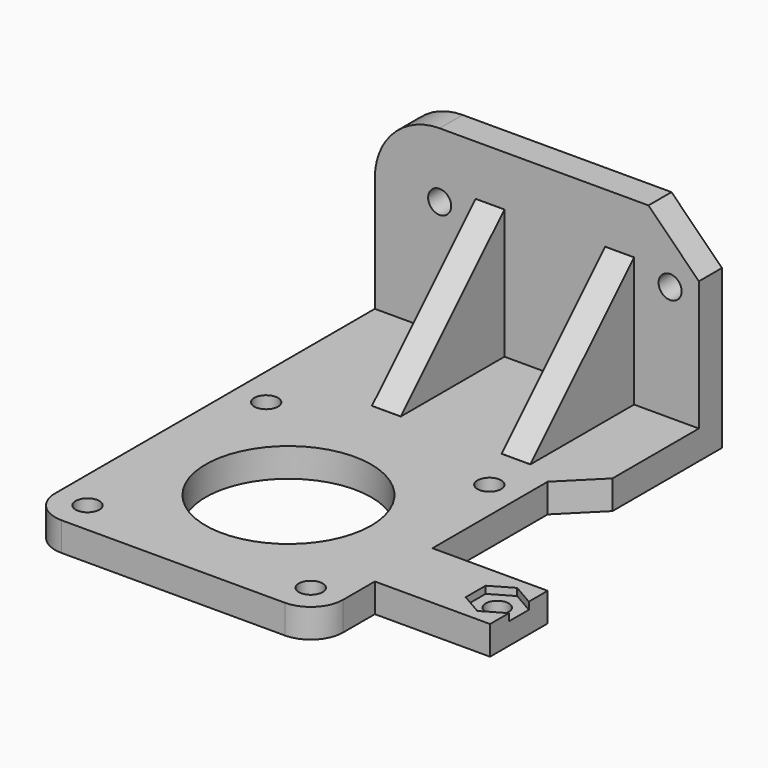
from build123d import *

# Parameters (mm, degrees)
PAD001_DEPTH      = 25
PAD001_DEPTH_BACK = 20
SKETCH002_W       = 4
SKETCH002_H       = 18
PAD002_DEPTH      = 22
SKETCH003_R       = 1.6
POCKET_DEPTH      = 44.001
FILLET001_R       = 9
CHAMFER_SIZE      = 7
CHAMFER001_SIZE   = 5
CHAMFER002_SIZE   = 17.99
SKETCH004_W       = 16
SKETCH004_H       = 10
PAD003_DEPTH      = 4
SKETCH005_R       = 1.6
POCKET001_DEPTH   = 4.001
POCKET002_DEPTH   = 1.5
SKETCH_W          = 40
SKETCH_H          = 40
SKETCH_R          = 1.65
SKETCH_R_2        = 11.5
PAD_DEPTH         = 4
FILLET_R          = 4.5


with BuildPart() as clippingbody:
    # Sketch001 → Pad001 (new body, two sides)
    with BuildSketch(Plane.YZ) as pad001_sk:
        Polygon((20, 0), (44, 0), (44, 29), (40, 29), (40, 4), (20, 4), align=None)
    extrude(amount=PAD001_DEPTH)
    extrude(pad001_sk.sketch, amount=-PAD001_DEPTH_BACK)

    # Sketch002 → Pad002 (join)
    with BuildSketch(Plane.XY):
        with Locations((14, 31)):
            Rectangle(SKETCH002_W, SKETCH002_H)
        with Locations((-4, 31)):
            Rectangle(SKETCH002_W, SKETCH002_H)
    extrude(amount=PAD002_DEPTH)

    # Sketch003 → Pocket (cut, through all)
    with BuildSketch(Plane.XZ):
        with Locations((21, 20)):
            Circle(SKETCH003_R)
        with Locations((-11, 20)):
            Circle(SKETCH003_R)
    extrude(amount=-POCKET_DEPTH, mode=Mode.SUBTRACT)

    # Fillet001
    fillet001_edges = [clippingbody.edges().sort_by_distance(p)[0] for p in [
        (-20, 42, 29),
    ]]
    fillet(fillet001_edges, radius=FILLET001_R)

    # Chamfer
    chamfer_edges = [clippingbody.edges().sort_by_distance(p)[0] for p in [
        (25, 42, 29),
    ]]
    chamfer(chamfer_edges, length=CHAMFER_SIZE)

    # Chamfer001
    chamfer001_edges = [clippingbody.edges().sort_by_distance(p)[0] for p in [
        (25, 20, 2),
    ]]
    chamfer(chamfer001_edges, length=CHAMFER001_SIZE)

    # Chamfer002
    chamfer002_edges = [clippingbody.edges().sort_by_distance(p)[0] for p in [
        (-4, 22, 22),
        (14, 22, 22),
    ]]
    chamfer(chamfer002_edges, length=CHAMFER002_SIZE)


with BuildPart() as sidestandbody:
    # Sketch004 → Pad003 (new body)
    with BuildSketch(Plane.XY):
        with Locations((28, -5)):
            Rectangle(SKETCH004_W, SKETCH004_H)
    extrude(amount=PAD003_DEPTH)

    # Sketch005 → Pocket001 (cut, through all)
    with BuildSketch(Plane.XY):
        with Locations((33, -5)):
            Circle(SKETCH005_R)
    extrude(amount=POCKET001_DEPTH, mode=Mode.SUBTRACT)

    # Sketch006 (on DatumPlane) → Pocket002 (cut)
    with BuildSketch(Plane.XY.offset(4.5)):
        Polygon((33, -8.464102), (36, -6.732051), (36, -3.267949), (33, -1.535898), (30, -3.267949), (30, -6.732051), align=None)
    extrude(amount=-POCKET002_DEPTH, mode=Mode.SUBTRACT)


with BuildPart() as holderfusion_refined:
    # Sketch → Pad (new body)
    with BuildSketch(Plane.XY):
        Rectangle(SKETCH_W, SKETCH_H)
        with Locations((-15.5, 15.5)):
            Circle(SKETCH_R, mode=Mode.SUBTRACT)
        with Locations((15.5, 15.5)):
            Circle(SKETCH_R, mode=Mode.SUBTRACT)
        with Locations((15.5, -15.5)):
            Circle(SKETCH_R, mode=Mode.SUBTRACT)
        with Locations((-15.5, -15.5)):
            Circle(SKETCH_R, mode=Mode.SUBTRACT)
        Circle(SKETCH_R_2, mode=Mode.SUBTRACT)
    extrude(amount=PAD_DEPTH)

    # Fillet
    fillet_edges = [holderfusion_refined.edges().sort_by_distance(p)[0] for p in [
        (20, -20, 2),
        (-20, -20, 2),
    ]]
    fillet(fillet_edges, radius=FILLET_R)

    # Fusion: union ClippingBody, SideStandBody
    add(clippingbody.part)
    add(sidestandbody.part)


solid = holderfusion_refined.part
